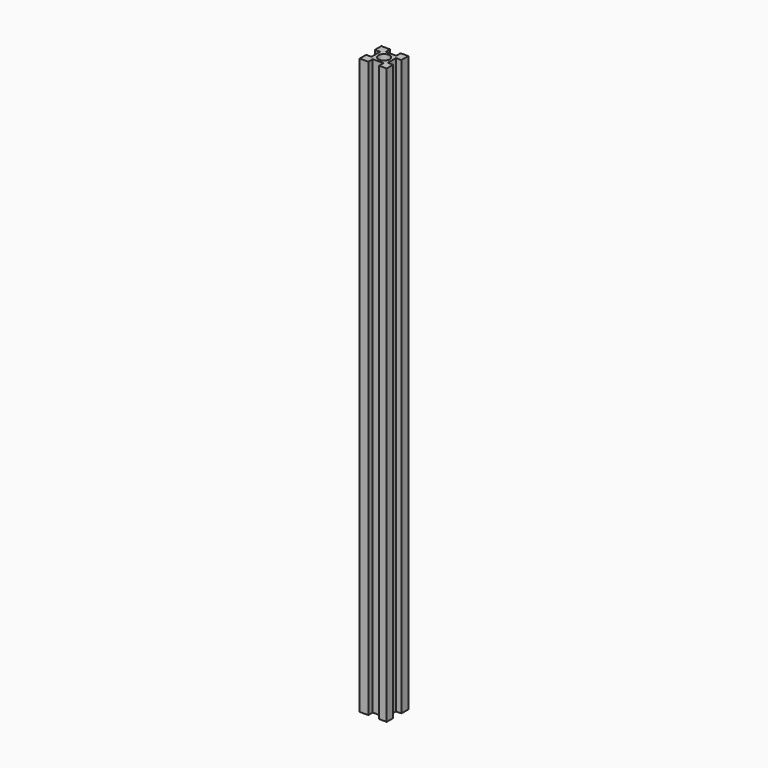
from build123d import *

# Parameters (mm, degrees)
F0_R     = 0.522267
F1_DEPTH = 54.1782


with BuildPart() as f1:
    # F0 (on Top) → F1 (new body)
    with BuildSketch(Plane.XY):
        Polygon((0, 0.754917), (0, 0), (0.804454, 0), (0.804454, 0.518479), (1.821138, 0.518479), (1.821138, 0), (2.54, 0), (2.54, 0.754917), (2.033932, 0.754917), (2.033932, 1.724312), (2.54, 1.724312), (2.54, 2.54), (1.821138, 2.54), (1.821138, 2.031682), (0.828098, 2.031682), (0.828098, 2.54), (0, 2.54), (0, 1.7716), (0.497085, 1.7716), (0.497085, 0.754917), align=None)
        with Locations((1.27733, 1.27)):
            Circle(F0_R, mode=Mode.SUBTRACT)
    extrude(amount=F1_DEPTH)


solid = f1.part
